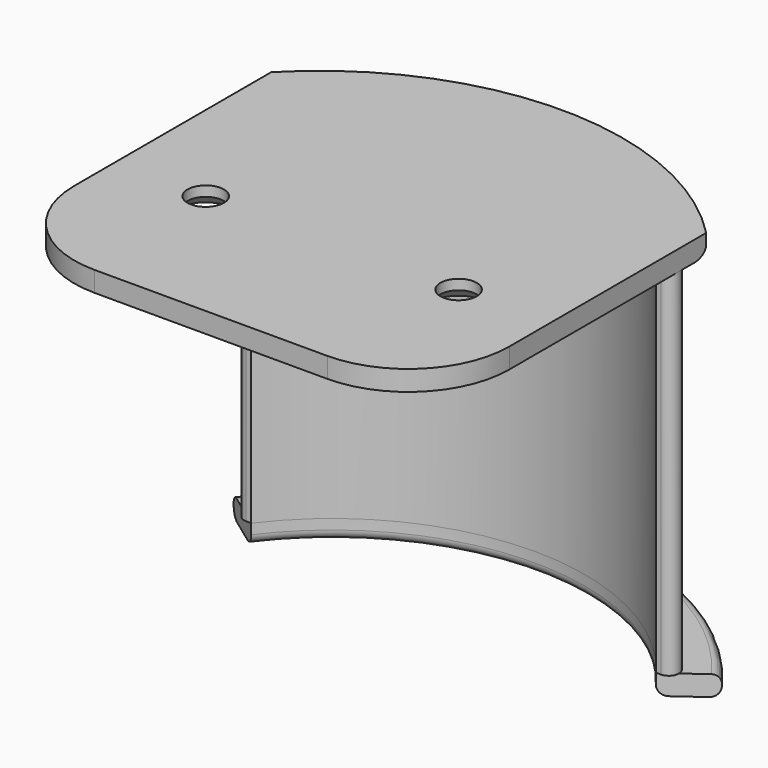
from build123d import *

# Parameters (mm, degrees)
PAD_DEPTH       = 35
SKETCH001_W     = 64.566103
SKETCH001_H     = 15
POCKET_DEPTH    = 35
PAD001_DEPTH    = 2
FILLET_R        = 1
FILLET001_R     = 1
FILLET002_R     = 1
FILLET003_R     = 1
FILLET004_R     = 1
PAD002_DEPTH    = 2
FILLET005_R     = 1
FILLET006_R     = 1
FILLET007_R     = 0.8
SKETCH005_R     = 1.8
POCKET001_DEPTH = 5
CHAMFER_SIZE    = 1
CHAMFER001_SIZE = 1
SKETCH006_W     = 10.45074
SKETCH006_H     = 39.185364
POCKET002_DEPTH = 5
SKETCH007_W     = 9.636787
SKETCH007_H     = 41.557176
POCKET003_DEPTH = 5
FILLET008_R     = 10
FILLET009_R     = 10


with BuildPart() as part:
    # Sketch → Pad (new body)
    with BuildSketch(Plane.XY):
        with BuildLine():
            ThreePointArc((25, 0), (0, 25), (-25, 0))
            Line((-27, 0), (-25, 0))
            ThreePointArc((27, 0), (0, 27), (-27, 0))
            Line((27, 0), (25, 0))
        make_face()
    extrude(amount=PAD_DEPTH)

    # Sketch001 (on Face6 of Pad) → Pocket (cut)
    with BuildSketch(Plane.XY.offset(35)):
        with Locations((1.810268, 7.5)):
            Rectangle(SKETCH001_W, SKETCH001_H)
    extrude(amount=-POCKET_DEPTH, mode=Mode.SUBTRACT)

    # Sketch003 (on Face4 of Pocket) → Pad001 (join)
    with BuildSketch(Plane.XY.offset(35)):
        with BuildLine():
            ThreePointArc((25, 15.01), (0, 28.426876), (-25, 15.01))
            Line((-25, -14.99), (-25, 15.01))
            Line((25, -14.99), (-25, -14.99))
            Line((25, 15.01), (25, -14.99))
        make_face()
    extrude(amount=PAD001_DEPTH)

    # Fillet
    fillet_edges = [part.edges().sort_by_distance(p)[0] for p in [
        (25, 0.01, 35),
    ]]
    fillet(fillet_edges, radius=FILLET_R)

    # Fillet001
    fillet001_edges = [part.edges().sort_by_distance(p)[0] for p in [
        (-0.867113, 28.414342, 35),
    ]]
    fillet(fillet001_edges, radius=FILLET001_R)

    # Fillet002
    fillet002_edges = [part.edges().sort_by_distance(p)[0] for p in [
        (-25, -0.933093, 35),
    ]]
    fillet(fillet002_edges, radius=FILLET002_R)

    # Fillet003
    fillet003_edges = [part.edges().sort_by_distance(p)[0] for p in [
        (-22.449944, 15, 17.5),
    ]]
    fillet(fillet003_edges, radius=FILLET003_R)

    # Fillet004
    fillet004_edges = [part.edges().sort_by_distance(p)[0] for p in [
        (22.449944, 15, 17.5),
    ]]
    fillet(fillet004_edges, radius=FILLET004_R)

    # Sketch004 (on Face14 of Fillet004) → Pad002 (join)
    with BuildSketch(Plane(origin=(0, 0, 0), x_dir=(1, 0, 0), z_dir=(0, 0, -1))):
        with BuildLine():
            ThreePointArc((-20, -15), (0.026547, -24.999986), (20.031811, -14.957491))
            Line((20.031811, -14.957491), (24.167366, -17.957491))
            ThreePointArc((-24.136043, -18), (0.026401, -30.182822), (24.167366, -17.957491))
            Line((-20, -15), (-24.136043, -18))
        make_face()
    extrude(amount=PAD002_DEPTH)

    # Fillet005
    fillet005_edges = [part.edges().sort_by_distance(p)[0] for p in [
        (0.026547, 24.999986, -2),
    ]]
    fillet(fillet005_edges, radius=FILLET005_R)

    # Fillet006
    fillet006_edges = [part.edges().sort_by_distance(p)[0] for p in [
        (0.026401, 30.182822, -2),
    ]]
    fillet(fillet006_edges, radius=FILLET006_R)

    # Fillet007
    fillet007_edges = [part.edges().sort_by_distance(p)[0] for p in [
        (0.026401, 30.182822, 0),
    ]]
    fillet(fillet007_edges, radius=FILLET007_R)

    # Sketch005 (on Face18 of Fillet007) → Pocket001 (cut)
    with BuildSketch(Plane(origin=(0, 0, 35), x_dir=(1, 0, 0), z_dir=(0, 0, -1))):
        with Locations((-12.5, 0)):
            Circle(SKETCH005_R)
        with Locations((12.5, 0)):
            Circle(SKETCH005_R)
    extrude(amount=-POCKET001_DEPTH, mode=Mode.SUBTRACT)

    # Chamfer
    chamfer_edges = [part.edges().sort_by_distance(p)[0] for p in [
        (10.7, 0, 35),
    ]]
    chamfer(chamfer_edges, length=CHAMFER_SIZE)

    # Chamfer001
    chamfer001_edges = [part.edges().sort_by_distance(p)[0] for p in [
        (-14.3, 0, 35),
    ]]
    chamfer(chamfer001_edges, length=CHAMFER001_SIZE)

    # Sketch006 (on Face1 of Chamfer001) → Pocket002 (cut)
    with BuildSketch(Plane(origin=(0, 0, 35), x_dir=(1, 0, 0), z_dir=(0, 0, -1))):
        with Locations((-26.72537, -2.508844)):
            Rectangle(SKETCH006_W, SKETCH006_H)
    extrude(amount=-POCKET002_DEPTH, mode=Mode.SUBTRACT)

    # Sketch007 (on Face1 of Pocket002) → Pocket003 (cut)
    with BuildSketch(Plane(origin=(0, 0, 35), x_dir=(1, 0, 0), z_dir=(0, 0, -1))):
        with Locations((26.326259, -1.833993)):
            Rectangle(SKETCH007_W, SKETCH007_H)
    extrude(amount=-POCKET003_DEPTH, mode=Mode.SUBTRACT)

    # Fillet008
    fillet008_edges = [part.edges().sort_by_distance(p)[0] for p in [
        (21.507866, -14.99, 36),
    ]]
    fillet(fillet008_edges, radius=FILLET008_R)

    # Fillet009
    fillet009_edges = [part.edges().sort_by_distance(p)[0] for p in [
        (-21.5, -14.99, 36),
    ]]
    fillet(fillet009_edges, radius=FILLET009_R)


solid = part.part
